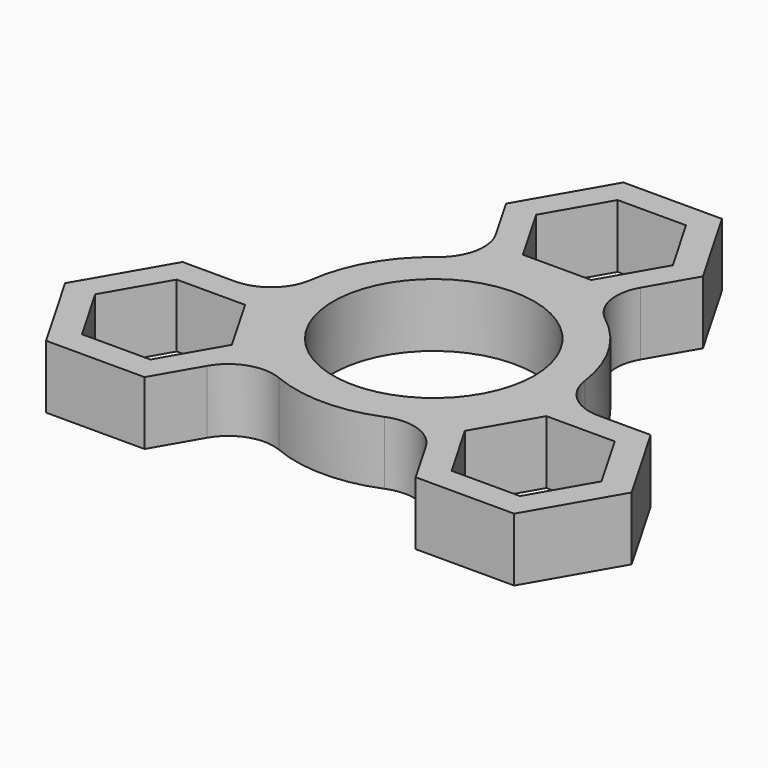
from build123d import *

# Parameters (mm, degrees)
F0_R     = 11.125
F1_DEPTH = 7


with BuildPart() as f1:
    # F0 (on Top) → F1 (new body)
    with BuildSketch(Plane.XY):
        with BuildLine():
            Line((5.4444130385, 33.03), (0, 33.03))
            Line((0, 33.03), (-5.4444130385, 33.03))
            Line((-5.4444130385, 33.03), (-10.8888260769, 23.6))
            Line((-10.8888260769, 23.6), (-7.9891537925, 18.5730850074))
            ThreePointArc((-7.9891537925, 18.5730850074), (-7.4167963098, 15.0969890115), (-9.2786809539, 12.1062997878))
            ThreePointArc((-9.2786809539, 12.1062997878), (-13.2099842894, 7.6257937206), (-15.123927364, 1.9807160028))
            ThreePointArc((-15.123927364, 1.9807160028), (-16.7835932791, -1.1280859481), (-20.0815911577, -2.37))
            Line((-20.0815911577, -2.37), (-25.8826125678, -2.37))
            Line((-25.8826125678, -2.37), (-31.3270256062, -11.8))
            Line((-31.3270256062, -11.8), (-25.8826125678, -21.23))
            Line((-25.8826125678, -21.23), (-14.9937864909, -21.23))
            Line((-14.9937864909, -21.23), (-12.0901865468, -16.2053526428))
            ThreePointArc((-12.0901865468, -16.2053526428), (-9.3659778497, -13.9716285248), (-5.8450226851, -14.0887233136))
            ThreePointArc((-5.8450226851, -14.0887233136), (0.0008610586, -15.2530788386), (5.8466133059, -14.0880633036))
            ThreePointArc((5.8466133059, -14.0880633036), (9.3687477282, -13.9709751725), (12.0932757858, -16.206168091))
            Line((12.0932757858, -16.206168091), (14.9937864909, -21.23))
            Line((14.9937864909, -21.23), (25.8826125678, -21.23))
            Line((25.8826125678, -21.23), (31.3270256062, -11.8))
            Line((31.3270256062, -11.8), (25.8826125678, -2.37))
            Line((25.8826125678, -2.37), (20.0793403393, -2.3677323646))
            ThreePointArc((20.0793403393, -2.3677323646), (16.7827741595, -1.1253604867), (15.123703639, 1.9824235258))
            ThreePointArc((15.123703639, 1.9824235258), (13.2091232308, 7.6272851179), (9.2773140581, 12.1073473009))
            ThreePointArc((9.2773140581, 12.1073473009), (7.4148455509, 15.0990611206), (7.9883153719, 18.576168091))
            Line((7.9883153719, 18.576168091), (10.8888260769, 23.6))
            Line((10.8888260769, 23.6), (5.4444130385, 33.03))
        make_face()
        Polygon((-16.6584522659, -5.2532857001), (-12.8787050026, -11.8), (-16.6584522659, -18.3467142999), (-24.2179467927, -18.3467142999), (-27.997694056, -11.8), (-24.2179467927, -5.2532857001), align=None, mode=Mode.SUBTRACT)
        Polygon((12.8787050026, -11.8), (16.6584522659, -5.2532857001), (24.2179467927, -5.2532857001), (27.997694056, -11.8), (24.2179467927, -18.3467142999), (16.6584522659, -18.3467142999), align=None, mode=Mode.SUBTRACT)
        Circle(F0_R, mode=Mode.SUBTRACT)
        Polygon((-3.7797472634, 30.1467142999), (0, 30.1467142999), (3.7797472634, 30.1467142999), (7.5594945267, 23.6), (3.7797472634, 17.0532857001), (-3.7797472634, 17.0532857001), (-7.5594945267, 23.6), align=None, mode=Mode.SUBTRACT)
    extrude(amount=F1_DEPTH)


solid = f1.part
